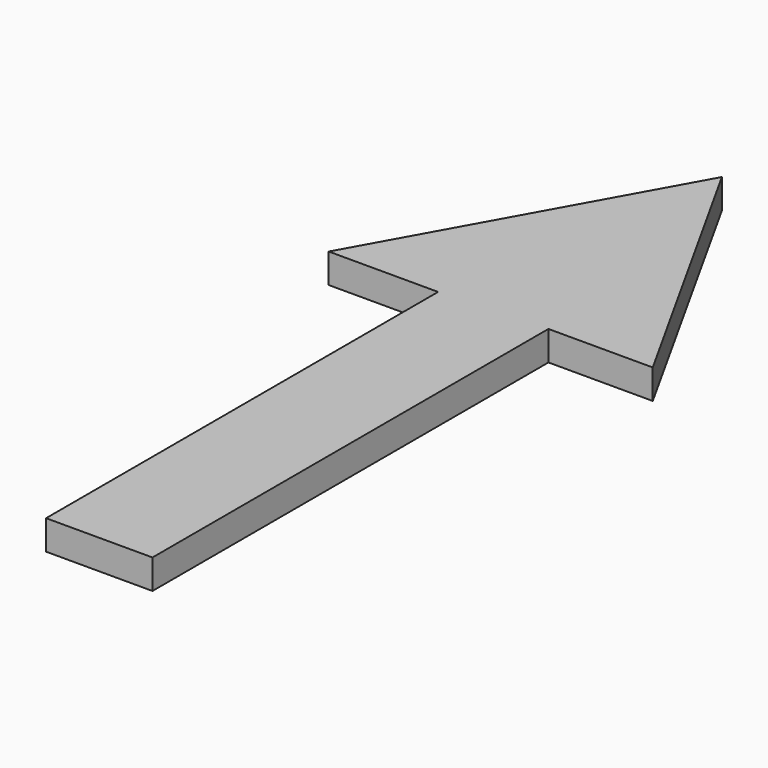
from build123d import *

# Parameters (mm, degrees)
PAD_DEPTH = 3


with BuildPart() as part:
    # Sketch → Pad (new body)
    with BuildSketch(Plane.XY):
        Polygon((0, 49.39394), (-16.363634, 19.898993), (-5.252522, 19.898993), (-5.252522, -29.900646), (5.560523, -29.900646), (5.560523, 20.402386), (16.161619, 20.402386), align=None)
    extrude(amount=PAD_DEPTH)


solid = part.part
